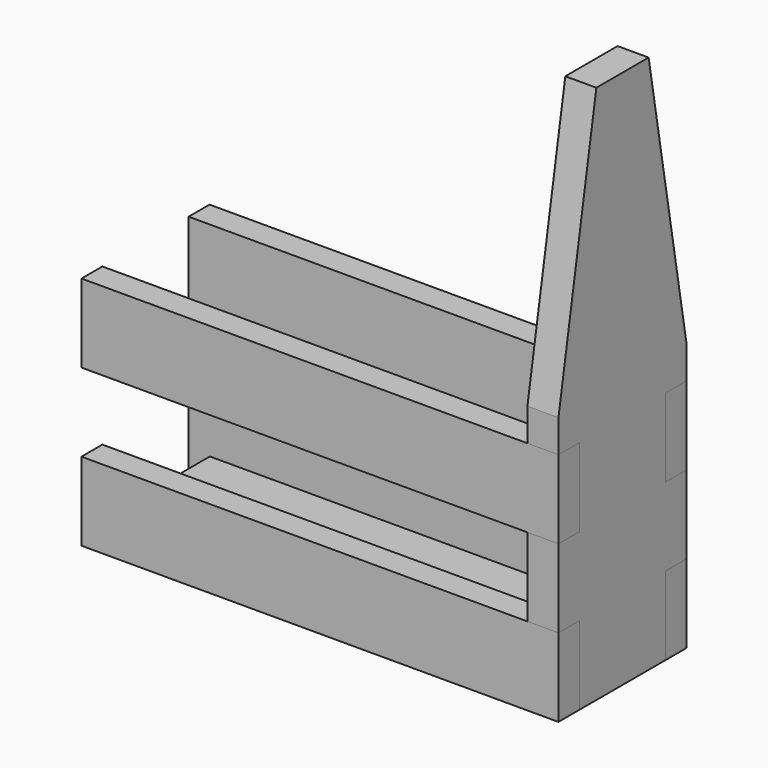
from build123d import *

# Parameters (mm, degrees)
F0_W     = 66
F0_H     = 19
F1_DEPTH = 260
F2_W     = 66
F2_H     = 19
F3_DEPTH = 19
F4_W     = 16
F4_H     = 48
F5_DEPTH = 292


with BuildPart() as f1:
    # F0 (on Right) → F1 (new body)
    with BuildSketch(Plane.YZ):
        with Locations((33, 9.5)):
            Rectangle(F0_W, F0_H)
    extrude(amount=F1_DEPTH)


with BuildPart() as f3:
    # F2 (on face) → F3 (new body)
    with BuildSketch(Plane.YZ.offset(260)):
        Polygon((0, 48), (0, 19), (66, 19), (66, 48), (82, 48), (82, 96), (66, 96), (66, 144), (82, 144), (82, 164), (53, 330), (33, 330), (13, 330), (-16, 164), (-16, 144), (0, 144), (0, 96), (-16, 96), (-16, 48), align=None)
        with Locations((33, 9.5)):
            Rectangle(F2_W, F2_H)
    extrude(amount=F3_DEPTH)


with BuildPart() as f5:
    # F4 (on face) → F5 (new body)
    with BuildSketch(Plane.YZ.offset(279)):
        with Locations((-8, 24)):
            Rectangle(F4_W, F4_H)
        with Locations((-8, 120)):
            Rectangle(F4_W, F4_H)
        with Locations((74, 120)):
            Rectangle(F4_W, F4_H)
        with Locations((74, 24)):
            Rectangle(F4_W, F4_H)
    extrude(amount=-F5_DEPTH)


solid = Compound([f1.part, f3.part, f5.part])
